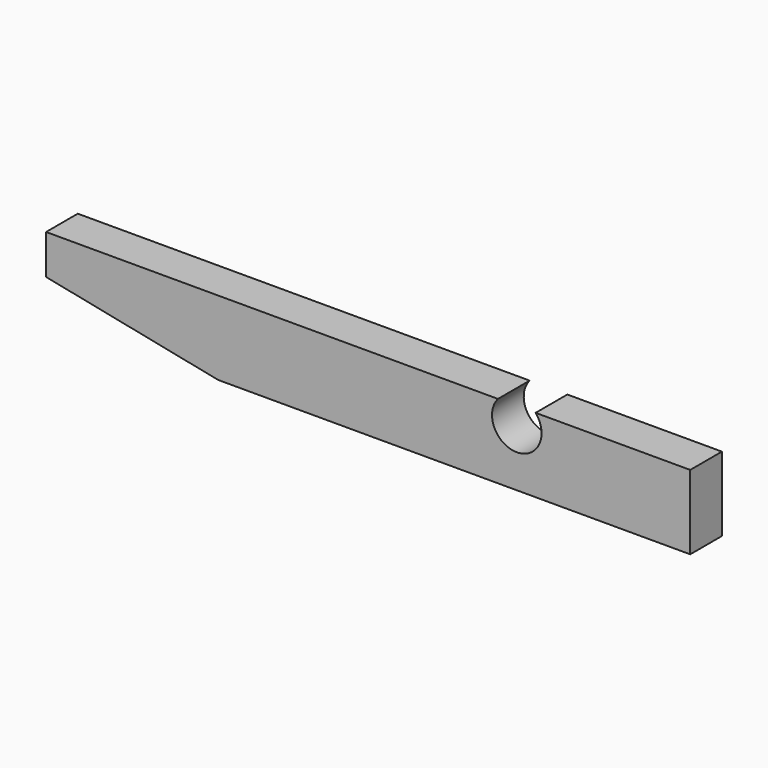
from build123d import *

# Parameters (mm, degrees)
F1_DEPTH = 5.08


with BuildPart() as f1:
    # F0 (on Front) → F1 (new body)
    with BuildSketch(Plane.XZ):
        with BuildLine():
            Line((2.185664, 9.525), (-51.789336, 9.525))
            Line((-51.789336, 9.525), (-51.789336, 4.445))
            Line((-51.789336, 4.445), (-29.730061, 0))
            Line((-29.730061, 0), (30.760664, 0))
            Line((30.760664, 0), (30.760664, 9.525))
            Line((30.760664, 9.525), (14.885664, 9.525))
            Line((14.885664, 9.525), (10.949157, 9.525))
            ThreePointArc((10.949157, 9.525), (8.535664, 4.287071), (6.12217, 9.525))
            Line((6.12217, 9.525), (2.350735, 9.525))
            Line((2.350735, 9.525), (2.185664, 9.525))
        make_face()
    extrude(amount=F1_DEPTH)


solid = f1.part
